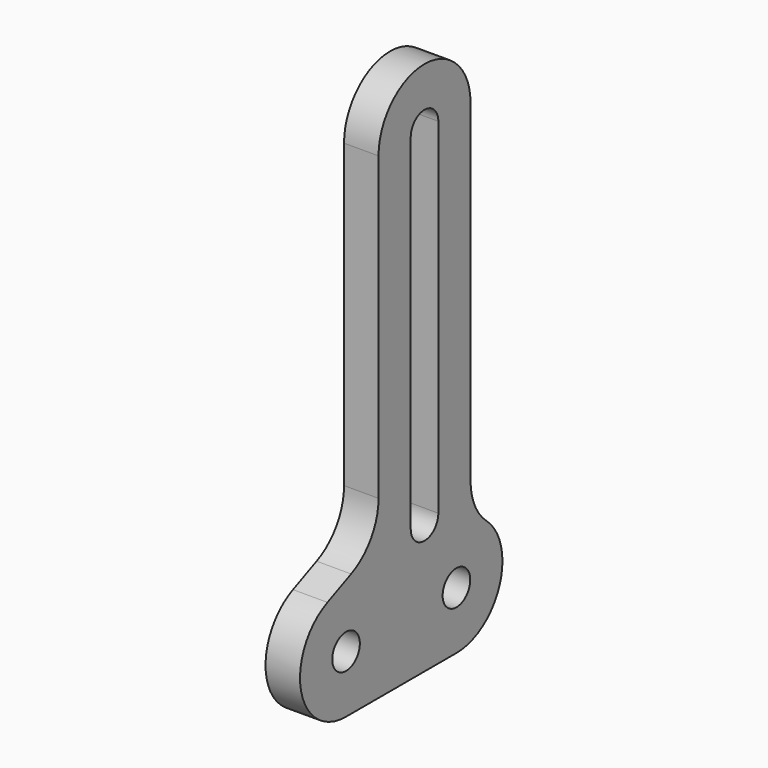
from build123d import *

# Parameters (mm, degrees)
F0_R     = 1.5
F1_DEPTH = 3


with BuildPart() as f1:
    # F0 (on Right) → F1 (new body)
    with BuildSketch(Plane.YZ):
        with BuildLine():
            Line((5, 7.571788), (5, 36.5))
            ThreePointArc((5, 36.5), (0, 41.5), (-5, 36.5))
            Line((-5, 36.5), (-5, 10.282043))
            ThreePointArc((-5, 10.282043), (-5.811393, 7.551555), (-7.982227, 5.707265))
            Line((-7.982227, 5.707265), (-10.54985, 4.574778))
            ThreePointArc((-10.54985, 4.574778), (-13.424616, -1.031046), (-8.532077, -5))
            Line((-8.532077, -5), (3.467923, -5))
            ThreePointArc((3.467923, -5), (8.154578, -1.742201), (6.733962, 3.785894))
            ThreePointArc((6.733962, 3.785894), (5.454112, 5.489745), (5, 7.571788))
        make_face()
        with Locations((-8.532077, 0)):
            Circle(F0_R, mode=Mode.SUBTRACT)
        with Locations((3.467923, 0)):
            Circle(F0_R, mode=Mode.SUBTRACT)
        with BuildLine():
            ThreePointArc((-1.5, 36.5), (0, 38), (1.5, 36.5))
            Line((1.5, 36.5), (1.5, 6.5))
            ThreePointArc((1.5, 6.5), (0, 5), (-1.5, 6.5))
            Line((-1.5, 6.5), (-1.5, 36.5))
        make_face(mode=Mode.SUBTRACT)
    extrude(amount=F1_DEPTH)


solid = f1.part
